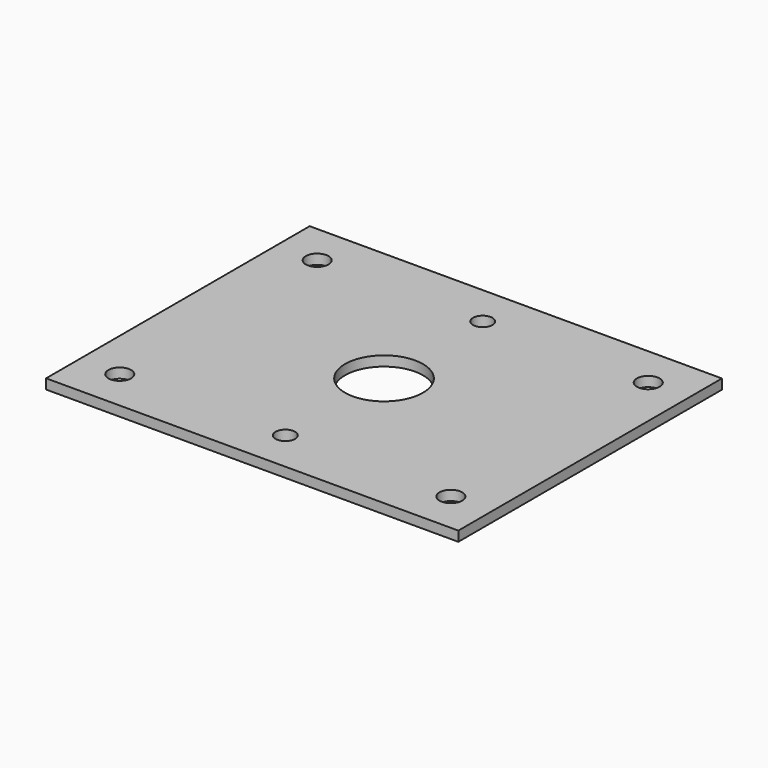
from build123d import *

# Parameters (mm, degrees)
F0_W     = 254
F0_H     = 203
F0_R     = 7
F0_R_2   = 6
F0_R_3   = 24
F1_DEPTH = 6.1


with BuildPart() as f1:
    # F0 (on Top) → F1 (new body)
    with BuildSketch(Plane.XY):
        with Locations((127, 101.5)):
            Rectangle(F0_W, F0_H)
        with Locations((25, 25.5)):
            Circle(F0_R, mode=Mode.SUBTRACT)
        with Locations((127, 25.5)):
            Circle(F0_R_2, mode=Mode.SUBTRACT)
        with Locations((229, 25.5)):
            Circle(F0_R, mode=Mode.SUBTRACT)
        with Locations((25, 177.5)):
            Circle(F0_R, mode=Mode.SUBTRACT)
        with Locations((127, 101.5)):
            Circle(F0_R_3, mode=Mode.SUBTRACT)
        with Locations((127, 177.5)):
            Circle(F0_R_2, mode=Mode.SUBTRACT)
        with Locations((229, 177.5)):
            Circle(F0_R, mode=Mode.SUBTRACT)
    extrude(amount=F1_DEPTH)


solid = f1.part
